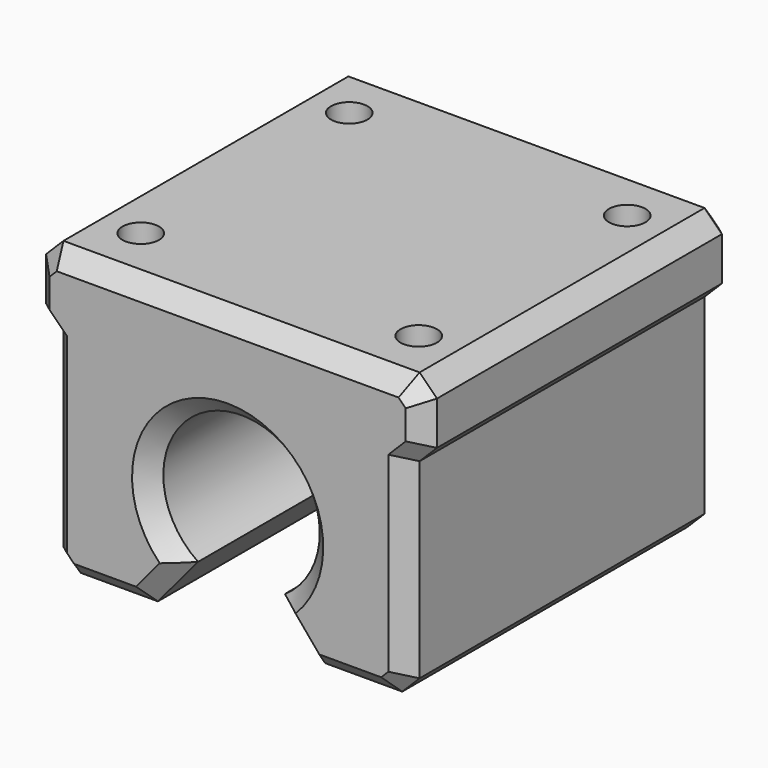
from build123d import *

# Parameters (mm, degrees)
F1_DEPTH = 22.5
F2_SIZE  = 2
F4_D     = 4.2
F4_DEPTH = 12
F4_TIP   = 1.2618073


with BuildPart() as f1:
    # F0 (on Front) → F1 (new body, symmetric)
    with BuildSketch(Plane.XZ):
        with BuildLine():
            ThreePointArc((-5, -7.4893274064), (0, 9.005), (5, -7.4893274064))
            Line((5, -7.4893274064), (9.6240033408, -13))
            Line((9.6240033408, -13), (18.5, -13))
            Line((18.5, -13), (20.5, -11))
            Line((20.5, -11), (20.5, 11))
            Line((20.5, 11), (22.5, 13))
            Line((22.5, 13), (22.5, 18))
            Line((22.5, 18), (20.5, 20))
            Line((20.5, 20), (-20.5, 20))
            Line((-20.5, 20), (-22.5, 18))
            Line((-22.5, 18), (-22.5, 13))
            Line((-22.5, 13), (-20.5, 11))
            Line((-20.5, 11), (-20.5, -11))
            Line((-20.5, -11), (-18.5, -13))
            Line((-18.5, -13), (-9.6240033408, -13))
            Line((-9.6240033408, -13), (-5, -7.4893274064))
        make_face()
    extrude(amount=F1_DEPTH, both=True)

    # F2
    f2_edges = [f1.edges().sort_by_distance(p)[0] for p in [
        (0, -22.5, 9.005),
        (7.312002, -22.5, -10.244664),
        (14.062002, -22.5, -13),
        (19.5, -22.5, -12),
        (20.5, -22.5, 0),
        (21.5, -22.5, 12),
        (22.5, -22.5, 15.5),
        (21.5, -22.5, 19),
        (0, -22.5, 20),
        (-21.5, -22.5, 19),
        (-22.5, -22.5, 15.5),
        (-21.5, -22.5, 12),
        (-20.5, -22.5, 0),
        (-19.5, -22.5, -12),
        (-14.062002, -22.5, -13),
        (-7.312002, -22.5, -10.244664),
        (0, 22.5, 9.005),
        (7.312002, 22.5, -10.244664),
        (14.062002, 22.5, -13),
        (19.5, 22.5, -12),
        (20.5, 22.5, 0),
        (21.5, 22.5, 12),
        (22.5, 22.5, 15.5),
        (21.5, 22.5, 19),
        (0, 22.5, 20),
        (-21.5, 22.5, 19),
        (-22.5, 22.5, 15.5),
        (-21.5, 22.5, 12),
        (-20.5, 22.5, 0),
        (-19.5, 22.5, -12),
        (-14.062002, 22.5, -13),
        (-7.312002, 22.5, -10.244664),
    ]]
    chamfer(f2_edges, length=F2_SIZE)

    # F4
    with Locations(Plane.XY.offset(20)):
        with Locations((-16, 15), (16, 15), (16, -15), (-16, -15)):
            Hole(F4_D / 2, depth=F4_DEPTH)
            with Locations((0, 0, -(F4_DEPTH + F4_TIP / 2))):  # 118° drill point
                Cone(0, F4_D / 2, F4_TIP, mode=Mode.SUBTRACT)


solid = f1.part
